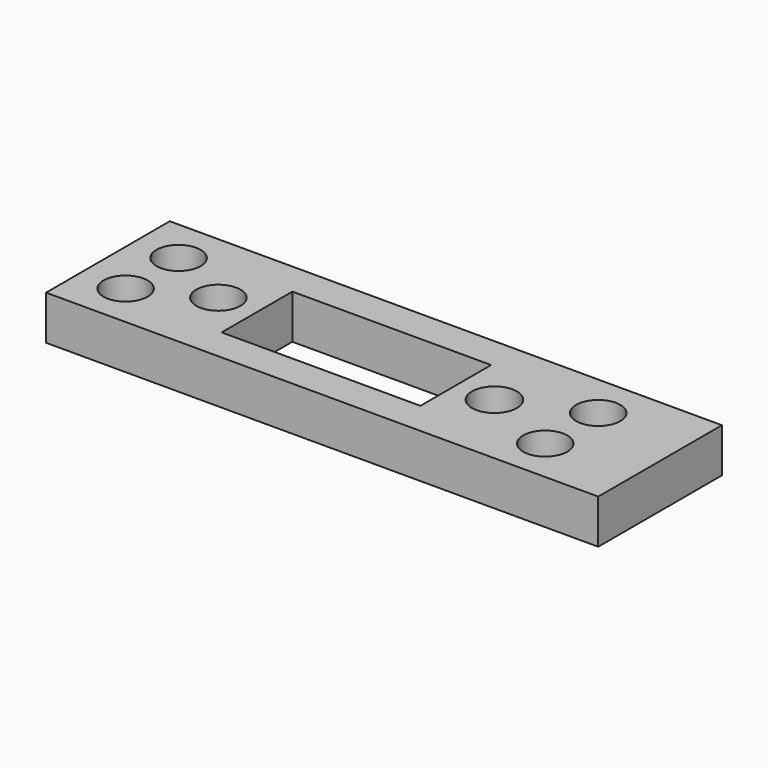
from build123d import *

# Parameters (mm, degrees)
CYLINDER005_R     = 1
CYLINDER005_DEPTH = 2
CYLINDER004_R     = 1
CYLINDER004_DEPTH = 2
CYLINDER003_R     = 1
CYLINDER003_DEPTH = 2
CYLINDER002_R     = 1
CYLINDER002_DEPTH = 2
CYLINDER001_R     = 1
CYLINDER001_DEPTH = 2
CYLINDER_R        = 1.02
CYLINDER_DEPTH    = 2
BOX001_W          = 9
BOX001_H          = 4
BOX001_DEPTH      = 2
BOX_W             = 25
BOX_H             = 7
BOX_DEPTH         = 2


with BuildPart() as cylinder005:
    # Cylinder005 → Cylinder005 (new body)
    with BuildSketch(Plane(origin=(16, 5, 0), x_dir=(1, 0, 0), z_dir=(0, 0, 1))):
        Circle(CYLINDER005_R)
    extrude(amount=CYLINDER005_DEPTH)


with BuildPart() as cylinder004:
    # Cylinder004 → Cylinder004 (new body)
    with BuildSketch(Plane(origin=(16, 2, 0), x_dir=(1, 0, 0), z_dir=(0, 0, 1))):
        Circle(CYLINDER004_R)
    extrude(amount=CYLINDER004_DEPTH)


with BuildPart() as cylinder003:
    # Cylinder003 → Cylinder003 (new body)
    with BuildSketch(Plane(origin=(-3, 2, 0), x_dir=(1, 0, 0), z_dir=(0, 0, 1))):
        Circle(CYLINDER003_R)
    extrude(amount=CYLINDER003_DEPTH)


with BuildPart() as cylinder002:
    # Cylinder002 → Cylinder002 (new body)
    with BuildSketch(Plane(origin=(-3, 5, 0), x_dir=(1, 0, 0), z_dir=(0, 0, 1))):
        Circle(CYLINDER002_R)
    extrude(amount=CYLINDER002_DEPTH)


with BuildPart() as cylinder001:
    # Cylinder001 → Cylinder001 (new body)
    with BuildSketch(Plane(origin=(0, 3.5, 0), x_dir=(1, 0, 0), z_dir=(0, 0, 1))):
        Circle(CYLINDER001_R)
    extrude(amount=CYLINDER001_DEPTH)


with BuildPart() as cylinder:
    # Cylinder → Cylinder (new body)
    with BuildSketch(Plane(origin=(12.5, 3.5, 0), x_dir=(1, 0, 0), z_dir=(0, 0, 1))):
        Circle(CYLINDER_R)
    extrude(amount=CYLINDER_DEPTH)


with BuildPart() as cube001:
    # Box001 → Box001 (new body)
    with BuildSketch(Plane(origin=(1.75, 1.5, 0), x_dir=(1, 0, 0), z_dir=(0, 0, 1))):
        with Locations((4.5, 2)):
            Rectangle(BOX001_W, BOX001_H)
    extrude(amount=BOX001_DEPTH)


with BuildPart() as cut006:
    # Box → Box (new body)
    with BuildSketch(Plane(origin=(-5, 0, 0), x_dir=(1, 0, 0), z_dir=(0, 0, 1))):
        with Locations((12.5, 3.5)):
            Rectangle(BOX_W, BOX_H)
    extrude(amount=BOX_DEPTH)

    # Cut: cut Cube001
    add(cube001.part, mode=Mode.SUBTRACT)

    # Cut001: cut Cylinder
    add(cylinder.part, mode=Mode.SUBTRACT)

    # Cut002: cut Cylinder001
    add(cylinder001.part, mode=Mode.SUBTRACT)

    # Cut003: cut Cylinder002
    add(cylinder002.part, mode=Mode.SUBTRACT)

    # Cut004: cut Cylinder003
    add(cylinder003.part, mode=Mode.SUBTRACT)

    # Cut005: cut Cylinder004
    add(cylinder004.part, mode=Mode.SUBTRACT)

    # Cut006: cut Cylinder005
    add(cylinder005.part, mode=Mode.SUBTRACT)


solid = cut006.part
